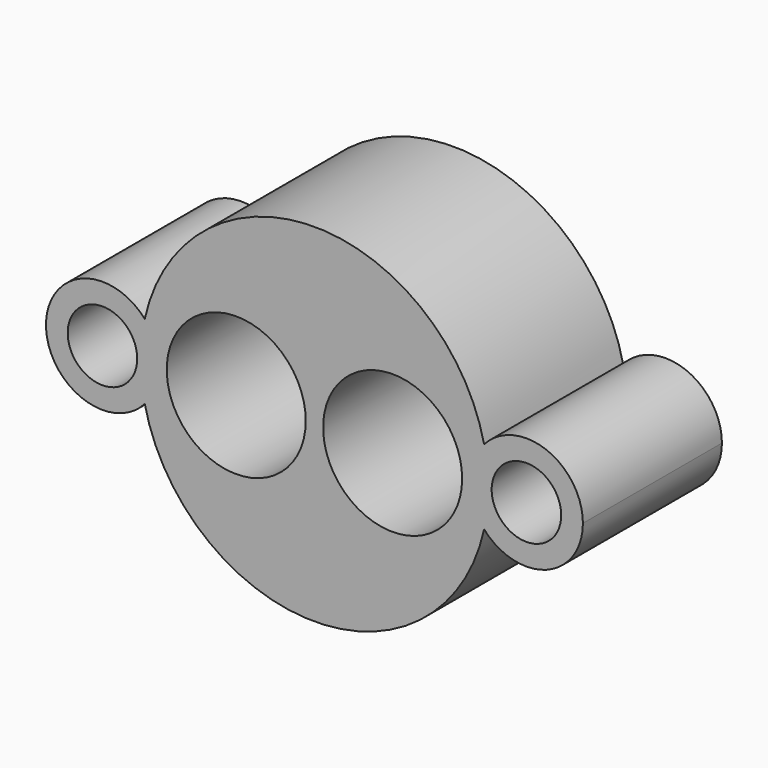
from build123d import *

# Parameters (mm, degrees)
F0_R     = 4
F1_DEPTH = 10
F0_R_2   = 2
F2_DEPTH = 10
F3_DEPTH = 10


with BuildPart() as f1:
    # F0 (on Front) → F1 (new body)
    with BuildSketch(Plane.XZ):
        with BuildLine():
            ThreePointArc((9.7654713115, -2.1530374044), (8.95, 0), (9.7654713115, 2.1530374044))
            ThreePointArc((9.7654713115, 2.1530374044), (0, 10), (-9.7654713115, 2.1530374044))
            ThreePointArc((-9.7654713115, 2.1530374044), (-9.1606975934, 1.1511476366), (-8.95, 0))
            ThreePointArc((-8.95, 0), (-9.1606975934, -1.1511476366), (-9.7654713115, -2.1530374044))
            ThreePointArc((-9.7654713115, -2.1530374044), (0, -10), (9.7654713115, -2.1530374044))
        make_face()
        with Locations((-4.5, 0)):
            Circle(F0_R, mode=Mode.SUBTRACT)
        with Locations((4.5, 0)):
            Circle(F0_R, mode=Mode.SUBTRACT)
    extrude(amount=F1_DEPTH)

    # F0 (on Front) → F2 (join)
    with BuildSketch(Plane.XZ):
        with BuildLine():
            ThreePointArc((-9.7654713115, -2.1530374044), (-10, 0), (-9.7654713115, 2.1530374044))
            ThreePointArc((-9.7654713115, 2.1530374044), (-15.45, 0), (-9.7654713115, -2.1530374044))
        make_face()
        with Locations((-12.2, 0)):
            Circle(F0_R_2, mode=Mode.SUBTRACT)
        with BuildLine():
            ThreePointArc((9.7654713115, 2.1530374044), (9.941194926, 1.082886625), (10, 0))
            ThreePointArc((10, 0), (9.941194926, -1.082886625), (9.7654713115, -2.1530374044))
            ThreePointArc((9.7654713115, -2.1530374044), (13.3511476366, -3.0393024066), (15.45, 0))
            ThreePointArc((15.45, 0), (13.3511476366, 3.0393024066), (9.7654713115, 2.1530374044))
        make_face()
        with Locations((12.2, 0)):
            Circle(F0_R_2, mode=Mode.SUBTRACT)
    extrude(amount=F2_DEPTH)

    # F0 (on Front) → F3 (join)
    with BuildSketch(Plane.XZ):
        with BuildLine():
            ThreePointArc((9.7654713115, -2.1530374044), (9.941194926, -1.082886625), (10, 0))
            ThreePointArc((10, 0), (9.941194926, 1.082886625), (9.7654713115, 2.1530374044))
            ThreePointArc((9.7654713115, 2.1530374044), (8.95, 0), (9.7654713115, -2.1530374044))
        make_face()
        with BuildLine():
            ThreePointArc((-8.95, 0), (-9.1606975934, 1.1511476366), (-9.7654713115, 2.1530374044))
            ThreePointArc((-9.7654713115, 2.1530374044), (-10, 0), (-9.7654713115, -2.1530374044))
            ThreePointArc((-9.7654713115, -2.1530374044), (-9.1606975934, -1.1511476366), (-8.95, 0))
        make_face()
    extrude(amount=F3_DEPTH)


solid = f1.part
